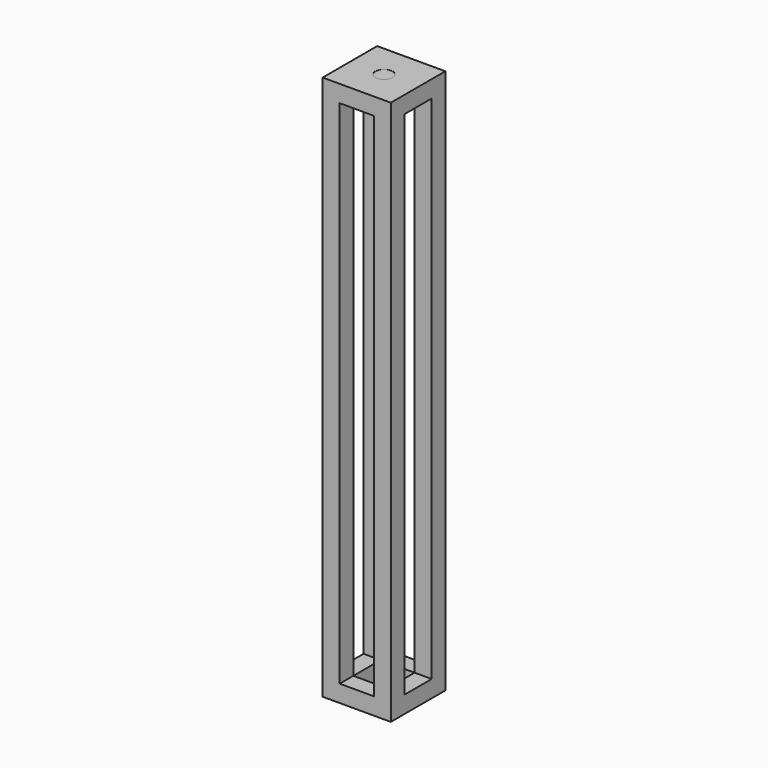
from build123d import *

# Parameters (mm, degrees)
F0_W      = 152.4
F0_H      = 152.4
F1_DEPTH  = 38.1
F2_W      = 76.2
F2_H      = 76.2
F3_DEPTH  = 38.1
F4_W      = 38.1
F4_H      = 38.1
F5_DEPTH  = 1143
F6_W      = 152.4
F6_H      = 152.4
F7_DEPTH  = 38.1
F8_R      = 6.35
F9_DEPTH  = 0.254
F10_R     = 19.05
F11_DEPTH = 0.254


with BuildPart() as f1:
    # F0 (on Top) → F1 (new body)
    with BuildSketch(Plane.XY):
        Rectangle(F0_W, F0_H)
    extrude(amount=-F1_DEPTH)

    # F2 (on face) → F3 (cut)
    with BuildSketch(Plane.XY):
        Rectangle(F2_W, F2_H)
    extrude(amount=-F3_DEPTH, mode=Mode.SUBTRACT)

    # F4 (on face) → F5 (join)
    with BuildSketch(Plane.XY):
        with Locations((-57.15, -57.15)):
            Rectangle(F4_W, F4_H)
        with Locations((-57.15, 57.15)):
            Rectangle(F4_W, F4_H)
        with Locations((57.15, 57.15)):
            Rectangle(F4_W, F4_H)
        with Locations((57.15, -57.15)):
            Rectangle(F4_W, F4_H)
    extrude(amount=F5_DEPTH)

    # F6 (on face) → F7 (join)
    with BuildSketch(Plane.XY.offset(1143)):
        Rectangle(F6_W, F6_H)
    extrude(amount=F7_DEPTH)

    # F8 (on face) → F9 (join)
    with BuildSketch(Plane(origin=(-76.2, 0, 0), x_dir=(0, -1, 0), z_dir=(-1, 0, 0))):
        with Locations((-57.15, -19.05)):
            Circle(F8_R)
        with Locations((57.15, -19.05)):
            Circle(F8_R)
    extrude(amount=F9_DEPTH)

    # F10 (on face) → F11 (cut)
    with BuildSketch(Plane.XY.offset(1181.1)):
        Circle(F10_R)
    extrude(amount=-F11_DEPTH, mode=Mode.SUBTRACT)


solid = f1.part
